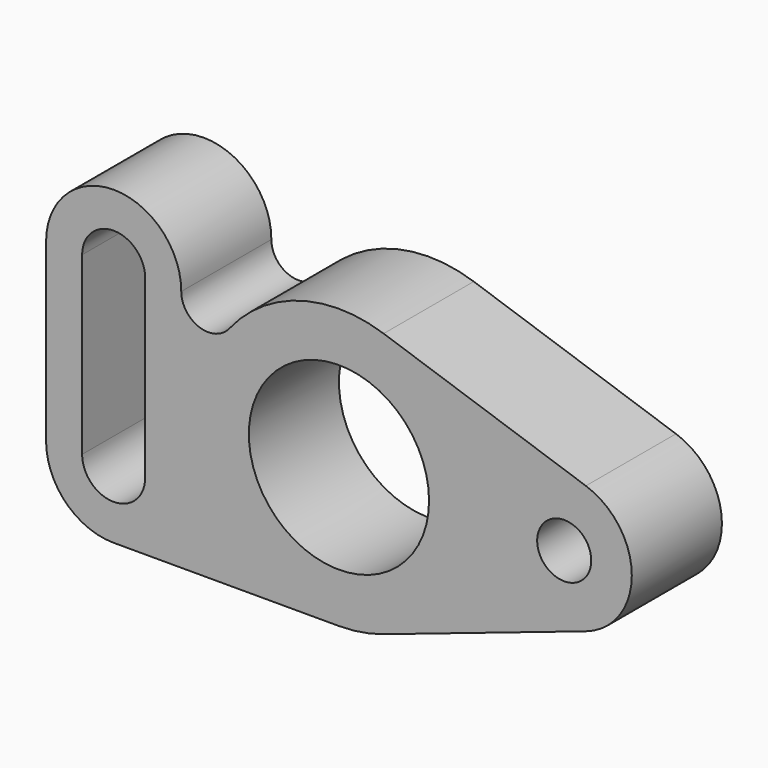
from build123d import *

# Parameters (mm, degrees)
F0_R     = 20
F0_R_2   = 6
F1_DEPTH = 25


with BuildPart() as f1:
    # F0 (on Front) → F1 (new body)
    with BuildSketch(Plane.XZ):
        with BuildLine():
            Line((-50, -31), (0, -31))
            ThreePointArc((0, -31), (5.026517, -30.589772), (9.92, -29.369944))
            Line((9.92, -29.369944), (54.8, -14.211263))
            ThreePointArc((54.8, -14.211263), (65, 0), (54.8, 14.211263))
            Line((54.8, 14.211263), (9.92, 29.369944))
            ThreePointArc((9.92, 29.369944), (-8.790322, 29.727601), (-24.297307, 19.252036))
            ThreePointArc((-24.297307, 19.252036), (-30.975734, 17.312857), (-35.000008, 22.984455))
            ThreePointArc((-35.000008, 22.984455), (-49.992227, 37.999998), (-65, 23))
            Line((-65, 23), (-65, -16))
            ThreePointArc((-65, -16), (-60.606602, -26.606602), (-50, -31))
        make_face()
        Circle(F0_R, mode=Mode.SUBTRACT)
        with Locations((50, 0)):
            Circle(F0_R_2, mode=Mode.SUBTRACT)
        with BuildLine():
            ThreePointArc((-57, 23), (-50, 30), (-43, 23))
            Line((-43, 23), (-43, -16))
            ThreePointArc((-43, -16), (-50, -23), (-57, -16))
            Line((-57, -16), (-57, 23))
        make_face(mode=Mode.SUBTRACT)
    extrude(amount=F1_DEPTH)


solid = f1.part
